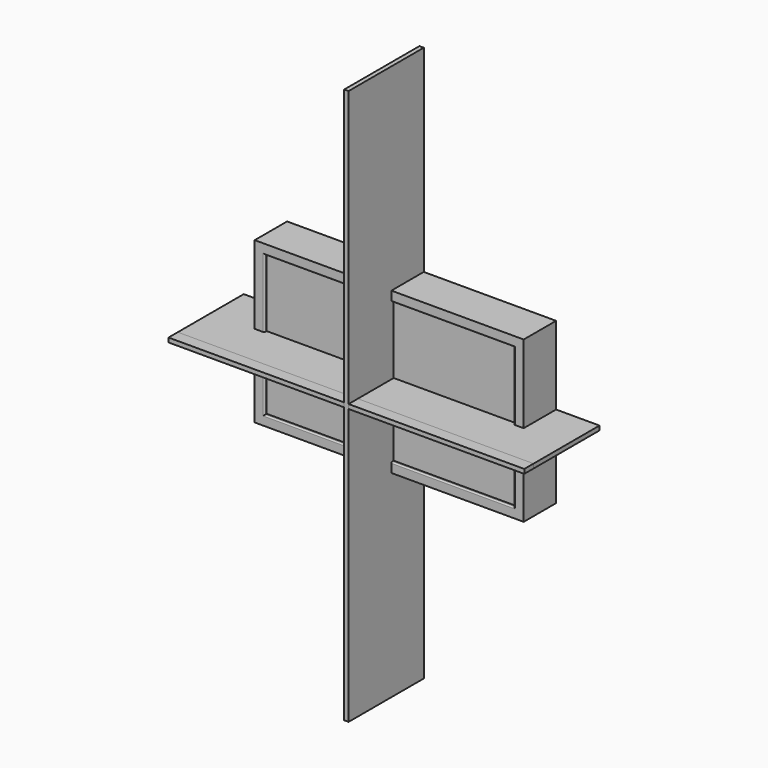
from build123d import *

# Parameters (mm, degrees)
F0_W      = 1181.1
F0_H      = 704.85
F1_DEPTH  = 177.8
F4_W      = 1562.1
F4_H      = 19.05
F5_DEPTH  = 412.75
F6_DEPTH  = 361.95
F7_DEPTH  = 361.95
F8_DEPTH  = 361.95
F9_DEPTH  = 361.95
F3_W      = 19.05
F3_H      = 2438.4
F10_DEPTH = 412.75
F2_W      = 1096.154452
F2_H      = 620.045066
F11_DEPTH = 12.7
F13_R     = 5.08


with BuildPart() as f1:
    # F0 (on Front) → F1 (new body)
    with BuildSketch(Plane.XZ):
        Rectangle(F0_W, F0_H)
    extrude(amount=F1_DEPTH)


with BuildPart() as f5:
    # F4 (on Front) → F5 (new body)
    with BuildSketch(Plane.XZ):
        Rectangle(F4_W, F4_H)
    extrude(amount=F5_DEPTH)


with BuildPart() as f6:
    # F4 (on Front) → F6 (new body)
    with BuildSketch(Plane.XZ):
        Rectangle(F4_W, F4_H)
    extrude(amount=F6_DEPTH)


with BuildPart() as f7:
    # F4 (on Front) → F7 (new body)
    with BuildSketch(Plane.XZ):
        Rectangle(F4_W, F4_H)
    extrude(amount=F7_DEPTH)


with BuildPart() as f8:
    # F4 (on Front) → F8 (new body)
    with BuildSketch(Plane.XZ):
        Rectangle(F4_W, F4_H)
    extrude(amount=F8_DEPTH)


with BuildPart() as f9:
    # F4 (on Front) → F9 (new body)
    with BuildSketch(Plane.XZ):
        Rectangle(F4_W, F4_H)
    extrude(amount=F9_DEPTH)


with BuildPart() as f10:
    # F3 (on Front) → F10 (new body)
    with BuildSketch(Plane.XZ):
        Rectangle(F3_W, F3_H)
    extrude(amount=F10_DEPTH)


with BuildPart() as f11:
    # F2 (on face) → F11 (new body, symmetric)
    with BuildSketch(Plane.XZ.offset(177.8)):
        Rectangle(F2_W, F2_H)
    extrude(amount=F11_DEPTH, both=True)


with BuildPart() as f1_1:
    add(f1.part)

    # F12: cut F11
    add(f11.part, mode=Mode.SUBTRACT)

    # F13
    f13_edges = [f1_1.edges().sort_by_distance(p)[0] for p in [
        (-548.077226, -177.8, 0),
        (0, -177.8, 310.022533),
        (548.077226, -177.8, 0),
        (0, -177.8, -310.022533),
    ]]
    fillet(f13_edges, radius=F13_R)


solid = Compound([f5.part, f6.part, f7.part, f8.part, f9.part, f10.part, f1_1.part])
